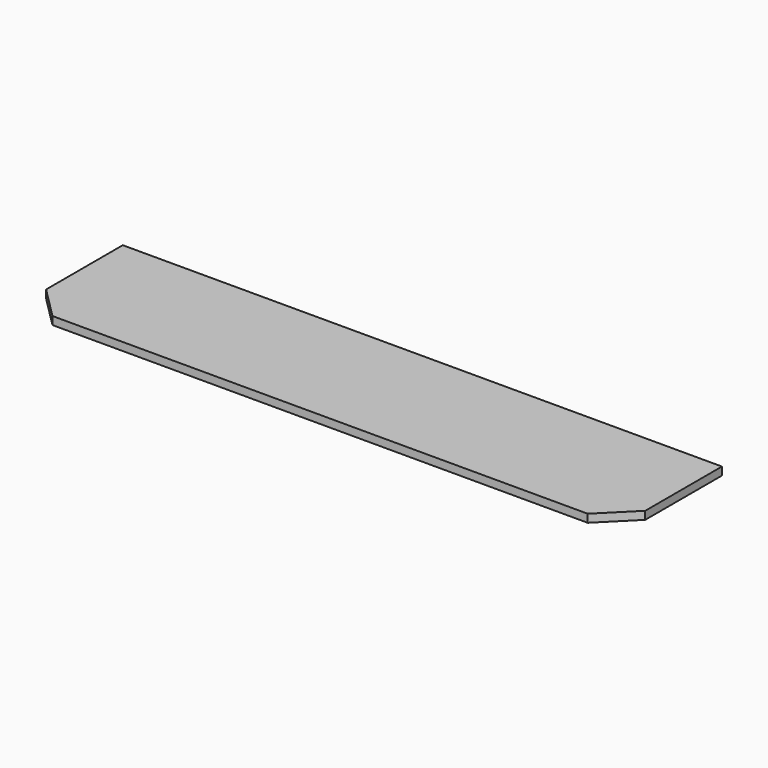
from build123d import *

# Parameters (mm, degrees)
F1_DEPTH = 12.7


with BuildPart() as f1:
    # F0 (on Top) → F1 (new body, symmetric)
    with BuildSketch(Plane.XY):
        Polygon((952.5, -152.4), (952.5, 152.4), (-952.5, 152.4), (-952.5, -152.4), (-850.9, -152.4), (-850.9, -254), (850.9, -254), align=None)
        Polygon((-850.9, -152.4), (-952.5, -152.4), (-850.9, -254), align=None)
    extrude(amount=F1_DEPTH, both=True)


solid = f1.part
